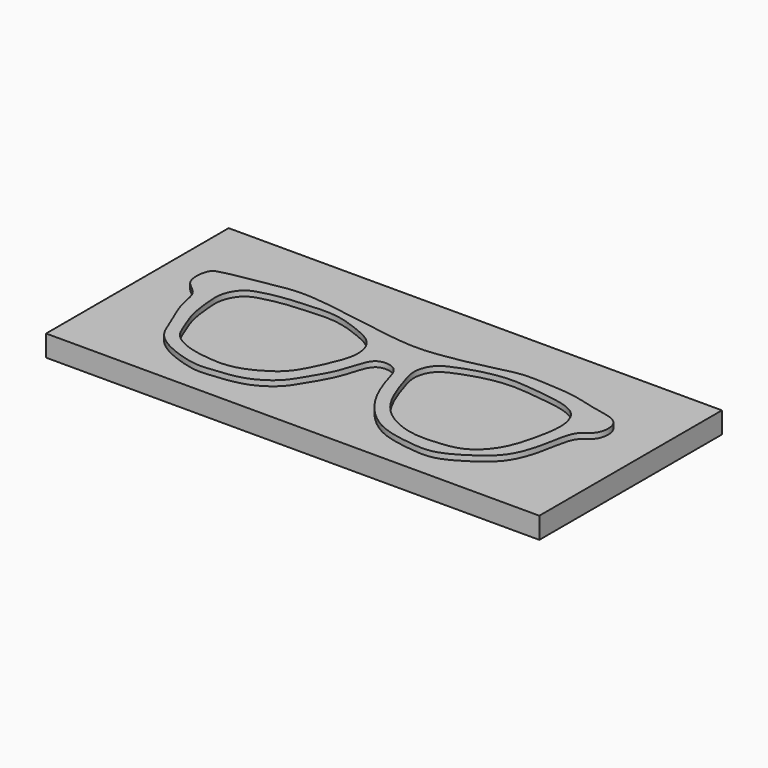
from build123d import *

# Parameters (mm, degrees)
F1_DEPTH = 5
F2_W     = 92.6819341257
F2_H     = 42.8826878779
F3_DEPTH = 4


with BuildPart() as f1:
    # F0 (on Top) → F1 (new body)
    with BuildSketch(Plane.XY):
        with BuildLine():
            add(Edge.make_bspline(
                [(-38.5794527829, 24.2407601327), (-36.8938359657, 24.1646889377), (-34.0712271397, 24.3701397917), (-28.7449336503, 25.2725649481), (-24.6964236408, 26.233170797), (-20.0937351066, 27.4374504094), (-15.9388121782, 27.1907800467), (-9.7784106854, 26.9215230295), (-5.1572212989, 25.2878939395), (0.9454413275, 24.6197493885), (0.5284380254, 19.1125949977), (-2.7772947075, 18.1134582068), (-3.4772585982, 11.9771551568), (-5.3535759298, 5.7153961302), (-9.9969087832, 2.2895875239), (-14.8227365622, -0.4988788856), (-19.5141472301, -0.0528227384), (-25.434546306, 0.8846617395), (-29.8347389018, 4.3816497471), (-32.7929461918, 8.7179524801), (-34.5677049198, 13.5628935911), (-35.4518550311, 17.3758928026), (-39.0381090092, 17.8289636328), (-40.6751139591, 15.8870554399), (-41.6076919366, 11.1768105438), (-44.5948251246, 6.6107335821), (-46.2072444153, 3.6459383205), (-50.8057943554, 0.4598349112), (-56.8431956147, 0.0313466232), (-60.0548137757, -0.4130011603), (-69.0276406889, 2.5740187249), (-70.6345398481, 8.0783303504), (-73.2337788323, 13.2783723041), (-73.4712085199, 17.7973904612), (-77.2733596066, 19.3870364009), (-76.8231832018, 24.2080677076), (-75.0488474945, 25.1841828262), (-66.5877341579, 26.487686587), (-61.5692334882, 27.5991577961), (-52.5676144362, 26.2811993145), (-45.8588823668, 25.0671448707), (-40.6686330251, 24.3350439793), (-38.5794527829, 24.2407601327)],
                knots=[0, 0, 0, 0, 0.0241474843, 0.0498897382, 0.073155029, 0.0971827474, 0.1203224345, 0.1478351024, 0.1736566374, 0.1992127659, 0.221505345, 0.2405525489, 0.2673594014, 0.2961833033, 0.3228074342, 0.3487846126, 0.3728578694, 0.4001206074, 0.426398869, 0.4521044299, 0.4778633525, 0.4990299956, 0.5179160719, 0.5345645452, 0.5591712716, 0.5854055844, 0.6059579933, 0.6319885323, 0.6590857553, 0.6799952881, 0.7128440696, 0.7393418837, 0.7664241679, 0.7892244711, 0.8101907416, 0.8324957432, 0.8477570402, 0.8798625069, 0.9067446437, 0.9397884446, 0.9700712246, 1, 1, 1, 1], degree=3))
        make_face()
        with BuildLine():
            add(Edge.make_bspline(
                [(-66.6092485189, 23.5319379717), (-67.4761459535, 23.2743972607), (-68.9089194071, 22.7035505917), (-70.6580452843, 19.788604104), (-70.4680350186, 16.3653713859), (-69.911797862, 11.7675728026), (-68.4677341297, 8.7023053291), (-67.4196852434, 5.3639826527), (-64.0844675017, 3.3663977702), (-60.1474924991, 2.5592913516), (-54.8208538912, 2.1012659041), (-49.9218780566, 4.5852766382), (-46.8886891471, 6.9316046041), (-44.3056551544, 12.5032192651), (-42.5950564538, 16.9435696955), (-43.7746657721, 21.562893885), (-48.8198971089, 23.6192863678), (-53.3162741575, 25.1387621952), (-58.961939921, 24.6948398011), (-62.6698175214, 24.4805997736), (-65.5034649161, 23.860447763), (-66.6092485189, 23.5319379717)],
                knots=[0, 0, 0, 0, 0.0398924743, 0.0848335033, 0.1327232656, 0.1878649696, 0.2355687995, 0.2823850067, 0.3312672951, 0.3830723168, 0.442225693, 0.5013664008, 0.5515711662, 0.6145674966, 0.6710206065, 0.7231916265, 0.781179122, 0.8381843985, 0.8984597376, 0.9491145755, 1, 1, 1, 1], degree=3))
        make_face(mode=Mode.SUBTRACT)
        with BuildLine():
            add(Edge.make_bspline(
                [(-31.7790433764, 21.2549027056), (-31.1352528122, 21.9736944803), (-29.280476361, 22.8483230083), (-25.6703564873, 24.1710988323), (-20.6282420244, 25.1606047265), (-15.4271239564, 24.537132683), (-10.8687049858, 24.0344262508), (-6.450988844, 22.6791600578), (-4.9910545683, 18.4292115555), (-5.8295398098, 13.5230801073), (-7.3741047676, 7.2188627173), (-11.5288468292, 3.0297945275), (-16.3836291345, 2.468297857), (-21.5544379242, 2.2598627037), (-27.1289275074, 4.820878216), (-30.3301621747, 9.0043067098), (-32.1996654778, 14.432855173), (-33.3749286044, 18.183681145), (-32.4556118871, 20.4995143736), (-31.7790433764, 21.2549027056)],
                knots=[0, 0, 0, 0, 0.0460897108, 0.0993280782, 0.1608561053, 0.2230387712, 0.2818522689, 0.3377250388, 0.3915876586, 0.4523403658, 0.5214959951, 0.5851255575, 0.6438005318, 0.7054322314, 0.7711312371, 0.8331724625, 0.8981211383, 0.9515636781, 1, 1, 1, 1], degree=3))
        make_face(mode=Mode.SUBTRACT)
    extrude(amount=F1_DEPTH)

    # F2 (on Top) → F3 (join)
    with BuildSketch(Plane.XY):
        with Locations((-37.5968418084, 16.6985581163)):
            Rectangle(F2_W, F2_H)
    extrude(amount=F3_DEPTH)


solid = f1.part
